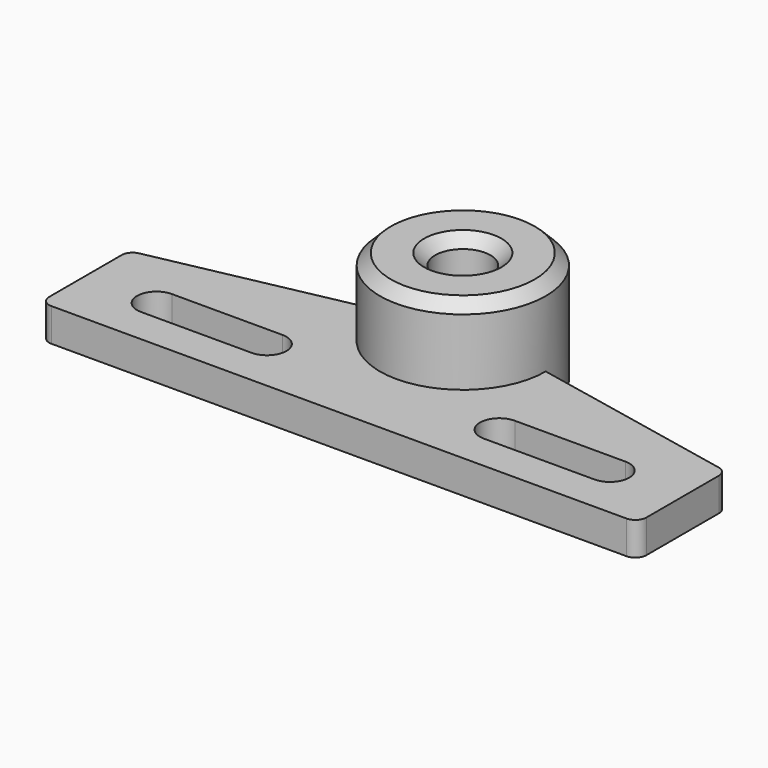
from build123d import *

# Parameters (mm, degrees)
SKETCH_R        = 2.5
PAD_DEPTH       = 3
SKETCH001_R     = 7.5
SKETCH001_R_2   = 2.5
PAD001_DEPTH    = 7
CHAMFER_SIZE    = 1
FILLET_R        = 1
FILLET001_R     = 1
FILLET002_R     = 1
FILLET003_R     = 1
CHAMFER001_SIZE = 1


with BuildPart() as part:
    # Sketch → Pad (new body)
    with BuildSketch(Plane.XY):
        with BuildLine():
            Line((-27, -5), (27, -5))
            Line((27, -5), (27, 5))
            Line((7.5, 9), (27, 5))
            ThreePointArc((7.5, 9), (0, 16.5), (-7.5, 9))
            Line((-27, 5), (-7.5, 9))
            Line((-27, 5), (-27, -5))
        make_face()
        with Locations((0, 9)):
            Circle(SKETCH_R, mode=Mode.SUBTRACT)
        with BuildLine():
            ThreePointArc((-20.5, 1.75), (-22.25, 0), (-20.5, -1.75))
            Line((-20.5, -1.75), (-10.5, -1.75))
            ThreePointArc((-10.5, -1.75), (-8.75, 0), (-10.5, 1.75))
            Line((-20.5, 1.75), (-10.5, 1.75))
        make_face(mode=Mode.SUBTRACT)
        with BuildLine():
            ThreePointArc((20.5, -1.75), (22.25, 0), (20.5, 1.75))
            Line((20.5, 1.75), (10.5, 1.75))
            ThreePointArc((10.5, 1.75), (8.75, 0), (10.5, -1.75))
            Line((20.5, -1.75), (10.5, -1.75))
        make_face(mode=Mode.SUBTRACT)
    extrude(amount=PAD_DEPTH)

    # Sketch001 (on Face17 of Pad) → Pad001 (join)
    with BuildSketch(Plane.XY.offset(3)):
        with Locations((0, 9)):
            Circle(SKETCH001_R)
        with Locations((0, 9)):
            Circle(SKETCH001_R_2, mode=Mode.SUBTRACT)
    extrude(amount=PAD001_DEPTH)

    # Chamfer
    chamfer_edges = [part.edges().sort_by_distance(p)[0] for p in [
        (-2.5, 9, 10),
    ]]
    chamfer(chamfer_edges, length=CHAMFER_SIZE)

    # Fillet
    fillet_edges = [part.edges().sort_by_distance(p)[0] for p in [
        (27, -5, 1.5),
    ]]
    fillet(fillet_edges, radius=FILLET_R)

    # Fillet001
    fillet001_edges = [part.edges().sort_by_distance(p)[0] for p in [
        (-27, -5, 1.5),
    ]]
    fillet(fillet001_edges, radius=FILLET001_R)

    # Fillet002
    fillet002_edges = [part.edges().sort_by_distance(p)[0] for p in [
        (27, 5, 1.5),
    ]]
    fillet(fillet002_edges, radius=FILLET002_R)

    # Fillet003
    fillet003_edges = [part.edges().sort_by_distance(p)[0] for p in [
        (-27, 5, 1.5),
    ]]
    fillet(fillet003_edges, radius=FILLET003_R)

    # Chamfer001
    chamfer001_edges = [part.edges().sort_by_distance(p)[0] for p in [
        (-7.5, 9, 10),
    ]]
    chamfer(chamfer001_edges, length=CHAMFER001_SIZE)


solid = part.part
